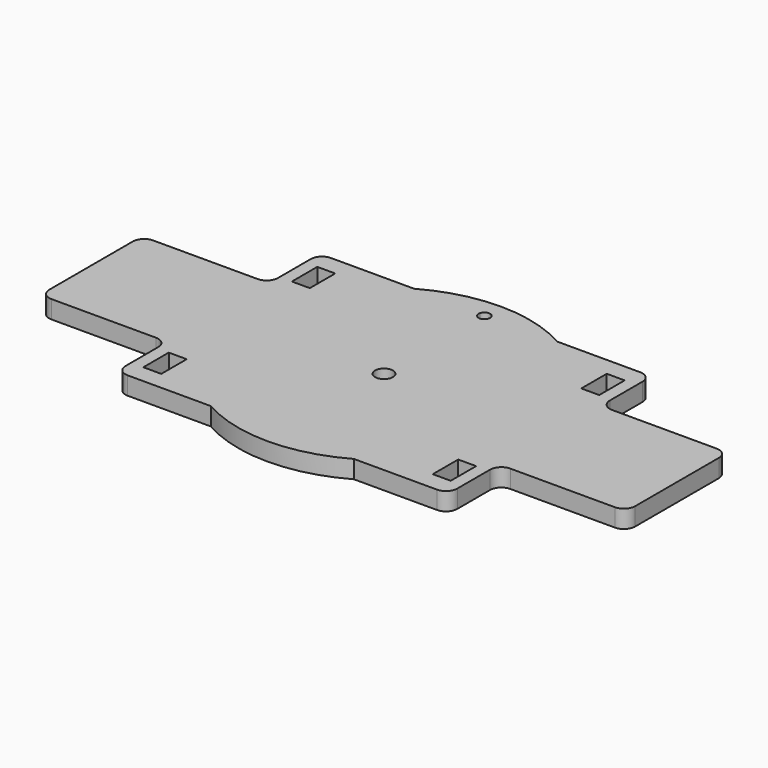
from build123d import *

# Parameters (mm, degrees)
F0_R     = 3.175
F0_W     = 6.35
F0_H     = 11.25
F1_DEPTH = 6.35


with BuildPart() as f1:
    # F0 (on Top) → F1 (new body)
    with BuildSketch(Plane.XY):
        with BuildLine():
            Line((1.956150301, 45), (25.3519723099, 45))
            ThreePointArc((25.3519723099, 45), (0, 51.65), (-25.3519723099, 45))
            Line((-25.3519723099, 45), (-1.956150301, 45))
            ThreePointArc((-1.956150301, 45), (0, 46.482), (1.956150301, 45))
        make_face()
        with BuildLine():
            ThreePointArc((-25.3519723099, -45), (0, -51.65), (25.3519723099, -45))
            Line((25.3519723099, -45), (-25.3519723099, -45))
        make_face()
        with BuildLine():
            ThreePointArc((25.3519723099, -45), (44.5934517043, -26.060440616), (51.65, 0))
            ThreePointArc((51.65, 0), (44.5934517043, 26.060440616), (25.3519723099, 45))
            Line((25.3519723099, 45), (1.956150301, 45))
            ThreePointArc((1.956150301, 45), (2.0129482621, 44.7276027633), (2.032, 44.45))
            ThreePointArc((2.032, 44.45), (-0.2776027633, 42.4370517379), (-1.956150301, 45))
            Line((-1.956150301, 45), (-25.3519723099, 45))
            ThreePointArc((-25.3519723099, 45), (-51.65, 0), (-25.3519723099, -45))
            Line((-25.3519723099, -45), (25.3519723099, -45))
        make_face()
        Circle(F0_R, mode=Mode.SUBTRACT)
        with BuildLine():
            ThreePointArc((-25.3519723099, -45), (-51.65, 0), (-25.3519723099, 45))
            Line((-25.3519723099, 45), (-54.75, 45))
            ThreePointArc((-54.75, 45), (-57.5784271247, 43.8284271247), (-58.75, 41))
            Line((-58.75, 41), (-58.75, 26.5))
            ThreePointArc((-58.75, 26.5), (-59.9215728753, 23.6715728753), (-62.75, 22.5))
            Line((-62.75, 22.5), (-99.75, 22.5))
            ThreePointArc((-99.75, 22.5), (-102.5784271247, 21.3284271247), (-103.75, 18.5))
            Line((-103.75, 18.5), (-103.75, -18.5))
            ThreePointArc((-103.75, -18.5), (-102.5784271247, -21.3284271247), (-99.75, -22.5))
            Line((-99.75, -22.5), (-62.75, -22.5))
            ThreePointArc((-62.75, -22.5), (-59.9215728753, -23.6715728753), (-58.75, -26.5))
            Line((-58.75, -26.5), (-58.75, -41))
            ThreePointArc((-58.75, -41), (-57.5784271247, -43.8284271247), (-54.75, -45))
            Line((-54.75, -45), (-25.3519723099, -45))
        make_face()
        with Locations((-51.25, -32.875)):
            Rectangle(F0_W, F0_H, mode=Mode.SUBTRACT)
        with Locations((-51.25, 32.875)):
            Rectangle(F0_W, F0_H, mode=Mode.SUBTRACT)
        with BuildLine():
            ThreePointArc((25.3519723099, 45), (44.5934517043, 26.060440616), (51.65, 0))
            ThreePointArc((51.65, 0), (44.5934517043, -26.060440616), (25.3519723099, -45))
            Line((25.3519723099, -45), (54.75, -45))
            ThreePointArc((54.75, -45), (57.5784271247, -43.8284271247), (58.75, -41))
            Line((58.75, -41), (58.75, -26.5))
            ThreePointArc((58.75, -26.5), (59.9215728753, -23.6715728753), (62.75, -22.5))
            Line((62.75, -22.5), (99.75, -22.5))
            ThreePointArc((99.75, -22.5), (102.5784271247, -21.3284271247), (103.75, -18.5))
            Line((103.75, -18.5), (103.75, 18.5))
            ThreePointArc((103.75, 18.5), (102.5784271247, 21.3284271247), (99.75, 22.5))
            Line((99.75, 22.5), (62.75, 22.5))
            ThreePointArc((62.75, 22.5), (59.9215728753, 23.6715728753), (58.75, 26.5))
            Line((58.75, 26.5), (58.75, 41))
            ThreePointArc((58.75, 41), (57.5784271247, 43.8284271247), (54.75, 45))
            Line((54.75, 45), (25.3519723099, 45))
        make_face()
        with Locations((51.25, -32.875)):
            Rectangle(F0_W, F0_H, mode=Mode.SUBTRACT)
        with Locations((51.25, 32.875)):
            Rectangle(F0_W, F0_H, mode=Mode.SUBTRACT)
    extrude(amount=F1_DEPTH)


solid = f1.part
